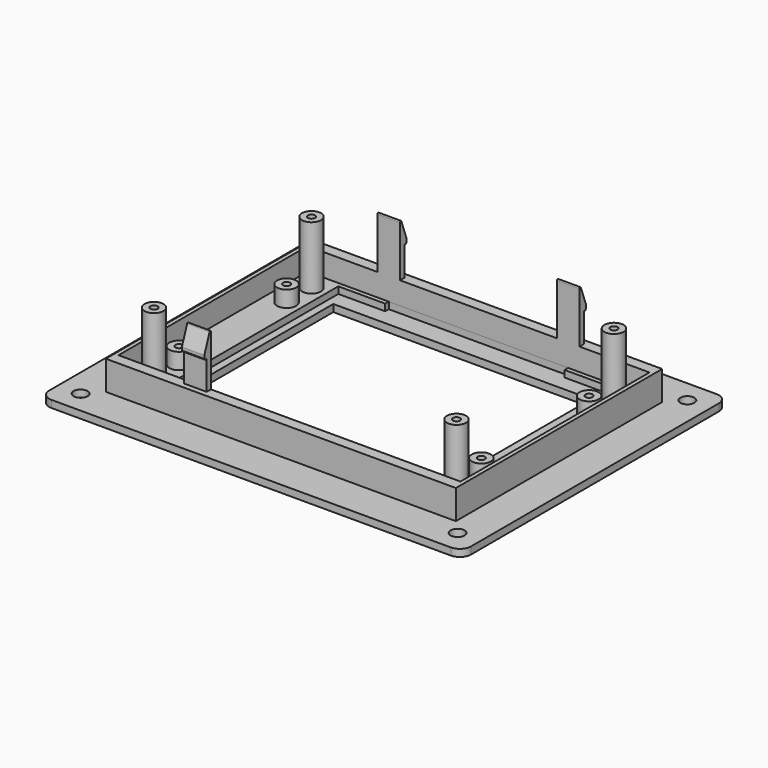
from build123d import *

# Parameters (mm, degrees)
F0_R      = 1.9812
F0_W      = 73.1012
F0_H      = 55.499
F1_DEPTH  = 2.032
F2_W      = 99.06
F2_H      = 72.9742
F3_DEPTH  = 1.905
F4_W      = 99.06
F4_H      = 72.9742
F4_W_2    = 96.774
F4_H_2    = 66.8528
F5_DEPTH  = 6.35
F6_R      = 2.7051
F6_R_2    = 1.016
F7_DEPTH  = 17.78
F8_R      = 2.7051
F8_R_2    = 1.016
F9_DEPTH  = 4.572
F12_DEPTH = 3.175
F15_DEPTH = 3.175


with BuildPart() as f1:
    # F0 (on Top) → F1 (new body)
    with BuildSketch(Plane.XY):
        with BuildLine():
            Line((56.515, 46.99), (-56.515, 46.99))
            ThreePointArc((-56.515, 46.99), (-58.760064, 46.060064), (-59.69, 43.815))
            Line((-59.69, 43.815), (-59.69, -43.815))
            ThreePointArc((-59.69, -43.815), (-58.760064, -46.060064), (-56.515, -46.99))
            Line((-56.515, -46.99), (56.515, -46.99))
            ThreePointArc((56.515, -46.99), (58.760064, -46.060064), (59.69, -43.815))
            Line((59.69, -43.815), (59.69, 43.815))
            ThreePointArc((59.69, 43.815), (58.760064, 46.060064), (56.515, 46.99))
        make_face()
        with Locations((-53.34, -40.64)):
            Circle(F0_R, mode=Mode.SUBTRACT)
        with Locations((53.34, -40.64)):
            Circle(F0_R, mode=Mode.SUBTRACT)
        Rectangle(F0_W, F0_H, mode=Mode.SUBTRACT)
        with Locations((-53.34, 40.64)):
            Circle(F0_R, mode=Mode.SUBTRACT)
        with Locations((53.34, 40.64)):
            Circle(F0_R, mode=Mode.SUBTRACT)
    extrude(amount=F1_DEPTH)

    # F2 (on face) → F3 (join)
    with BuildSketch(Plane.XY.offset(2.032)):
        Rectangle(F2_W, F2_H)
        Polygon((38.6842, -32.1818), (-38.6842, -32.1818), (-38.6842, 32.1818), (-25.415266, 32.1818), (-25.415266, 33.4518), (25.384734, 33.4518), (25.384734, 32.1818), (38.6842, 32.1818), align=None, mode=Mode.SUBTRACT)
    extrude(amount=F3_DEPTH)

    # F4 (on face) → F5 (join)
    with BuildSketch(Plane.XY.offset(3.937)):
        Rectangle(F4_W, F4_H)
        Rectangle(F4_W_2, F4_H_2, mode=Mode.SUBTRACT)
    extrude(amount=F5_DEPTH)

    # F6 (on face) → F7 (join)
    with BuildSketch(Plane.XY.offset(3.937)):
        with Locations((-42.799, 27.8511)):
            Circle(F6_R)
        with Locations((-42.799, 27.8511)):
            Circle(F6_R_2, mode=Mode.SUBTRACT)
        with Locations((-42.799, -27.8511)):
            Circle(F6_R)
        with Locations((-42.799, -27.8511)):
            Circle(F6_R_2, mode=Mode.SUBTRACT)
        with Locations((42.799, -27.8511)):
            Circle(F6_R)
        with Locations((42.799, -27.8511)):
            Circle(F6_R_2, mode=Mode.SUBTRACT)
        with Locations((42.799, 27.8511)):
            Circle(F6_R)
        with Locations((42.799, 27.8511)):
            Circle(F6_R_2, mode=Mode.SUBTRACT)
    extrude(amount=F7_DEPTH)

    # F8 (on face) → F9 (join)
    with BuildSketch(Plane.XY.offset(3.937)):
        with Locations((-42.799, 19.05)):
            Circle(F8_R)
        with Locations((-42.799, 19.05)):
            Circle(F8_R_2, mode=Mode.SUBTRACT)
        with Locations((-42.799, -19.05)):
            Circle(F8_R)
        with Locations((-42.799, -19.05)):
            Circle(F8_R_2, mode=Mode.SUBTRACT)
        with Locations((42.799, 19.05)):
            Circle(F8_R)
        with Locations((42.799, 19.05)):
            Circle(F8_R_2, mode=Mode.SUBTRACT)
        with Locations((42.799, -19.05)):
            Circle(F8_R)
        with Locations((42.799, -19.05)):
            Circle(F8_R_2, mode=Mode.SUBTRACT)
    extrude(amount=F9_DEPTH)

    # F11 (on offset) → F12 (join, symmetric)
    with BuildSketch(Plane.YZ.offset(-25.4)):
        with BuildLine():
            Line((-34.9504, 10.287), (-33.4264, 10.287))
            Line((-33.4264, 10.287), (-33.4264, 24.721494))
            ThreePointArc((-33.4264, 24.721494), (-33.636293, 24.971636), (-33.919082, 24.808368))
            Line((-33.919082, 24.808368), (-35.763301, 19.741417))
            Line((-35.763301, 19.741417), (-35.763301, 18.830367))
            Line((-35.763301, 18.830367), (-35.4584, 18.467))
            Line((-35.4584, 18.467), (-34.9504, 18.467))
            Line((-34.9504, 18.467), (-34.9504, 10.287))
        make_face()
        with BuildLine():
            Line((33.4264, 24.721494), (33.4264, 10.287))
            Line((33.4264, 10.287), (34.9504, 10.287))
            Line((34.9504, 10.287), (34.9504, 18.467))
            Line((34.9504, 18.467), (35.4584, 18.467))
            Line((35.4584, 18.467), (35.763301, 18.830367))
            Line((35.763301, 18.830367), (35.763301, 19.741417))
            Line((35.763301, 19.741417), (33.919082, 24.808368))
            ThreePointArc((33.919082, 24.808368), (33.636293, 24.971636), (33.4264, 24.721494))
        make_face()
    extrude(amount=F12_DEPTH, both=True)

    # F14 (on offset) → F15 (join, symmetric)
    with BuildSketch(Plane.YZ.offset(25.4)):
        with BuildLine():
            ThreePointArc((33.919082, 24.808368), (33.636293, 24.971636), (33.4264, 24.721494))
            Line((33.4264, 24.721494), (33.4264, 10.287))
            Line((33.4264, 10.287), (34.9504, 10.287))
            Line((34.9504, 10.287), (34.9504, 18.467))
            Line((34.9504, 18.467), (35.4584, 18.467))
            Line((35.4584, 18.467), (35.763301, 18.830367))
            Line((35.763301, 18.830367), (35.763301, 19.741417))
            Line((35.763301, 19.741417), (33.919082, 24.808368))
        make_face()
    extrude(amount=F15_DEPTH, both=True)


solid = f1.part
